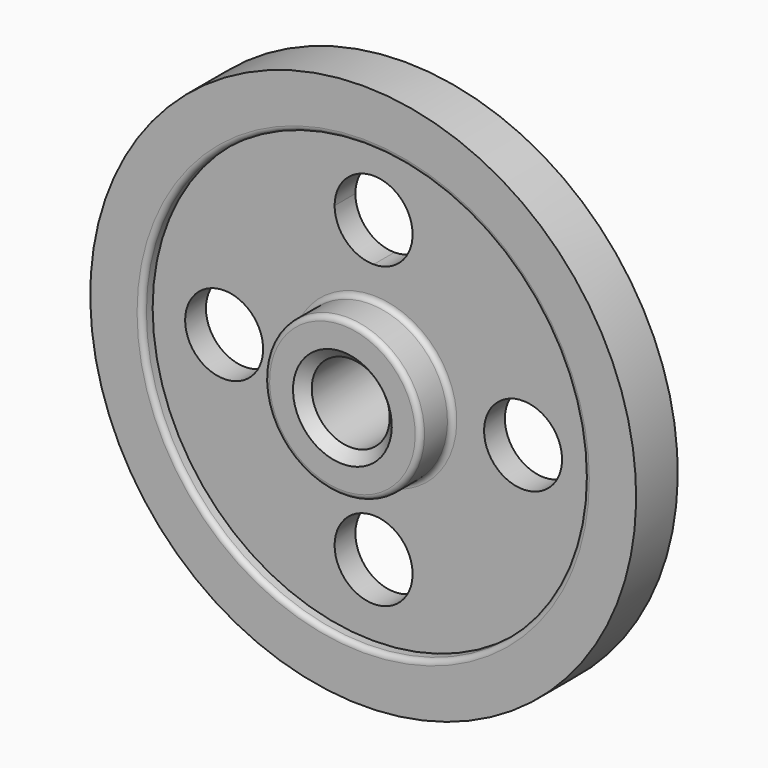
from build123d import *

# Parameters (mm, degrees)
F2_R     = 19.05
F3_DEPTH = 25.4
F4_R     = 2.54
F5_SIZE  = 5.08


with BuildPart() as f1:
    # F0 (on Right) → F1 (revolve)
    with BuildSketch(Plane.YZ):
        Polygon((-25.4, 19.05), (0, 19.05), (25.4, 19.05), (25.4, 38.1), (6.35, 38.1), (6.35, 107.95), (12.7, 107.95), (12.7, 133.35), (6.35, 133.35), (0, 133.35), (-6.35, 133.35), (-12.7, 133.35), (-12.7, 107.95), (-6.35, 107.95), (-6.35, 38.1), (-25.4, 38.1), align=None)
    revolve(axis=Axis((0, 38.1, 0), (0, 1, 0)))

    # F2 (on face) → F3 (cut)
    with BuildSketch(Plane(origin=(0, 6.35, 0), x_dir=(-1, 0, 0), z_dir=(0, 1, 0))):
        with Locations((-73.025, 0)):
            Circle(F2_R)
        with Locations((0, -73.025)):
            Circle(F2_R)
        with BuildLine():
            ThreePointArc((19.05, 73.025), (-13.470384, 86.495384), (0, 53.975))
            ThreePointArc((0, 53.975), (13.470384, 59.554616), (19.05, 73.025))
        make_face()
        with Locations((73.025, 0)):
            Circle(F2_R)
    extrude(amount=-F3_DEPTH, mode=Mode.SUBTRACT)

    # F4
    f4_edges = [f1.edges().sort_by_distance(p)[0] for p in [
        (0, -6.35, -38.1),
        (0, -25.4, -38.1),
        (0, -15.875, 38.1),
        (0, -12.7, -107.95),
        (0, 25.4, -38.1),
        (0, 6.35, -38.1),
        (0, 15.875, 38.1),
        (0, 6.35, -107.95),
    ]]
    fillet(f4_edges, radius=F4_R)

    # F5
    f5_edges = [f1.edges().sort_by_distance(p)[0] for p in [
        (0, -25.4, -19.05),
        (0, 0, 19.05),
        (0, 25.4, -19.05),
    ]]
    chamfer(f5_edges, length=F5_SIZE)


solid = f1.part
